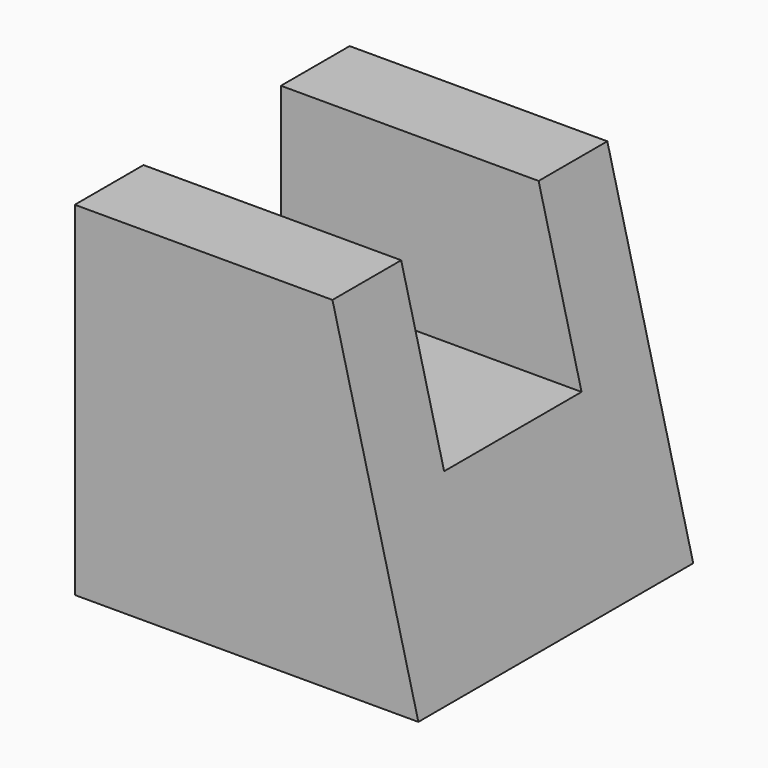
from build123d import *

# Parameters (mm, degrees)
F1_DEPTH = 25.4
F3_DEPTH = 25.4


with BuildPart() as f1:
    # F0 (on Right) → F1 (new body)
    with BuildSketch(Plane.YZ):
        Polygon((0, 25.4), (0, 0), (25.4, 0), (25.4, 25.4), (19.05, 25.4), (19.05, 12.7), (6.35, 12.7), (6.35, 25.4), align=None)
    extrude(amount=F1_DEPTH)

    # F2 (on face) → F3 (cut)
    with BuildSketch(Plane.XZ):
        Polygon((25.4, 25.4), (19.05, 25.4), (25.4, 0), align=None)
    extrude(amount=-F3_DEPTH, mode=Mode.SUBTRACT)


solid = f1.part
